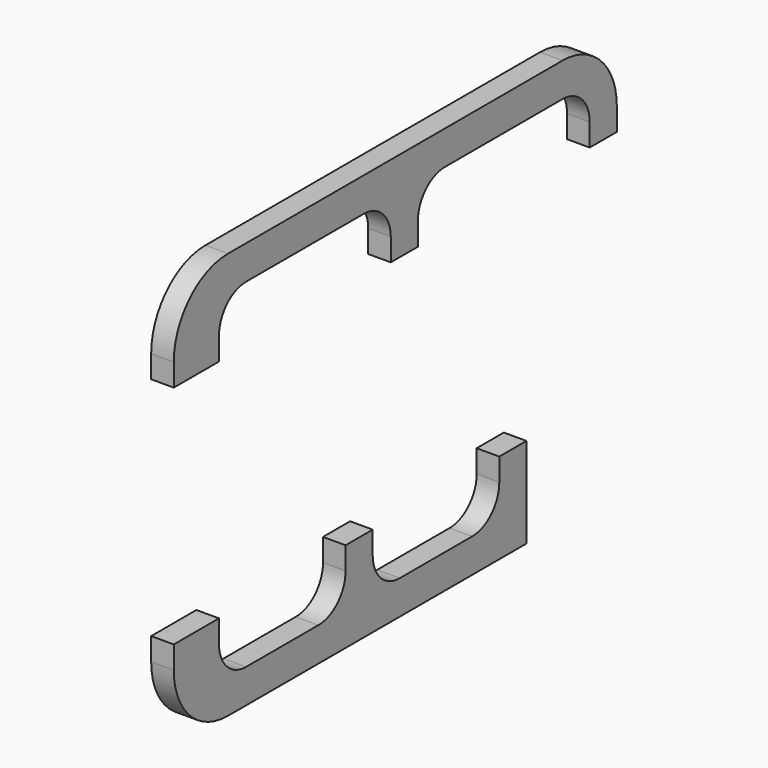
from build123d import *

# Parameters (mm, degrees)
F1_DEPTH = 12.7
F2_DEPTH = 12.7


with BuildPart() as f1:
    # F0 (on Right) → F1 (new body)
    with BuildSketch(Plane.YZ):
        with BuildLine():
            Line((-155.575, 12.7), (-155.575, 0))
            Line((-155.575, 0), (-123.825, 0))
            Line((-123.825, 0), (-123.825, 12.7))
            ThreePointArc((-123.825, 12.7), (-118.245384, 26.170384), (-104.775, 31.75))
            Line((-104.775, 31.75), (-22.225, 31.75))
            ThreePointArc((-22.225, 31.75), (-8.754616, 26.170384), (-3.175, 12.7))
            Line((-3.175, 12.7), (-3.175, 0))
            Line((-3.175, 0), (15.875, 0))
            Line((15.875, 0), (15.875, 12.7))
            ThreePointArc((15.875, 12.7), (21.454616, 26.170384), (34.925, 31.75))
            Line((34.925, 31.75), (117.475, 31.75))
            ThreePointArc((117.475, 31.75), (130.945384, 26.170384), (136.525, 12.7))
            Line((136.525, 12.7), (136.525, 0))
            Line((136.525, 0), (155.575, 0))
            Line((155.575, 0), (155.575, 12.7))
            ThreePointArc((155.575, 12.7), (144.415768, 39.640768), (117.475, 50.8))
            Line((117.475, 50.8), (-117.475, 50.8))
            ThreePointArc((-117.475, 50.8), (-144.415768, 39.640768), (-155.575, 12.7))
        make_face()
    extrude(amount=F1_DEPTH)


with BuildPart() as f2:
    # F0 (on Right) → F2 (new body)
    with BuildSketch(Plane.YZ):
        with BuildLine():
            Line((-123.825, -127), (-155.575, -127))
            Line((-155.575, -127), (-155.575, -139.7))
            ThreePointArc((-155.575, -139.7), (-144.415768, -166.640768), (-117.475, -177.8))
            Line((-117.475, -177.8), (92.075, -177.8))
            Line((92.075, -177.8), (92.075, -127))
            Line((92.075, -127), (73.025, -127))
            Line((73.025, -127), (73.025, -139.7))
            ThreePointArc((73.025, -139.7), (67.445384, -153.170384), (53.975, -158.75))
            Line((53.975, -158.75), (3.175, -158.75))
            ThreePointArc((3.175, -158.75), (-10.295384, -153.170384), (-15.875, -139.7))
            Line((-15.875, -139.7), (-15.875, -127))
            Line((-15.875, -127), (-34.925, -127))
            Line((-34.925, -127), (-34.925, -139.7))
            ThreePointArc((-34.925, -139.7), (-40.504616, -153.170384), (-53.975, -158.75))
            Line((-53.975, -158.75), (-104.775, -158.75))
            ThreePointArc((-104.775, -158.75), (-118.245384, -153.170384), (-123.825, -139.7))
            Line((-123.825, -139.7), (-123.825, -127))
        make_face()
    extrude(amount=F2_DEPTH)


solid = Compound([f1.part, f2.part])
